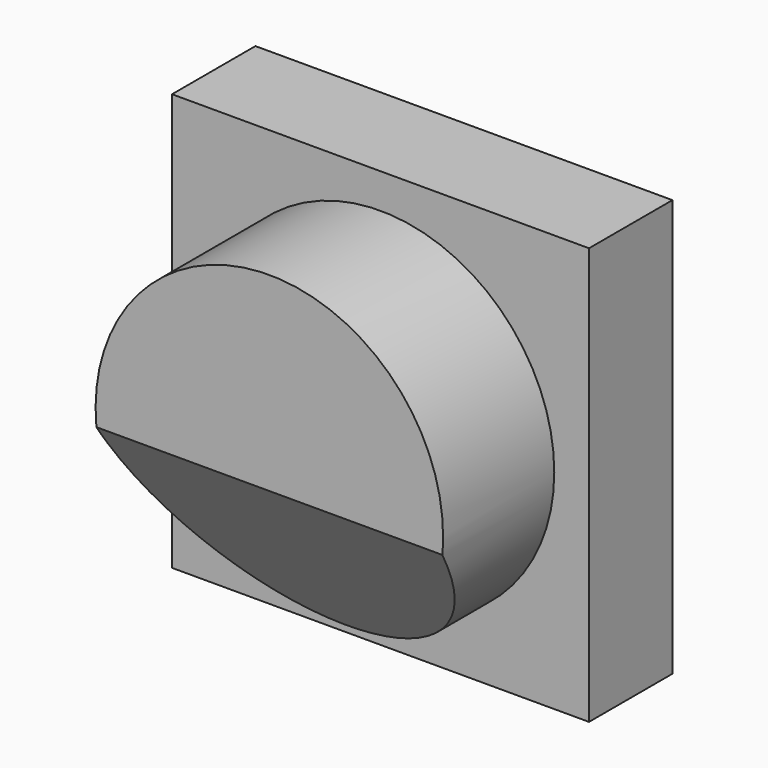
from build123d import *

# Parameters (mm, degrees)
F0_R     = 5
F1_DEPTH = 4
F3_DEPTH = 12.5
F4_W     = 12
F4_H     = 12
F5_DEPTH = 3
F6_R     = 4.5
F7_DEPTH = 0.5


with BuildPart() as f1:
    # F0 (on Front) → F1 (new body)
    with BuildSketch(Plane.XZ):
        Circle(F0_R)
    extrude(amount=F1_DEPTH)

    # F2 (on Right) → F3 (cut, symmetric)
    with BuildSketch(Plane.YZ):
        Polygon((-5.130814, -6.028544), (-0.71682, -5.832574), (-4.290942, 0), align=None)
    extrude(amount=F3_DEPTH, both=True, mode=Mode.SUBTRACT)

    # F4 (on face) → F5 (join)
    with BuildSketch(Plane(origin=(0, 0, 0), x_dir=(-1, 0, 0), z_dir=(0, 1, 0))):
        Rectangle(F4_W, F4_H)
    extrude(amount=F5_DEPTH)

    # F6 (on face) → F7 (cut)
    with BuildSketch(Plane(origin=(0, 3, 0), x_dir=(-1, 0, 0), z_dir=(0, 1, 0))):
        Circle(F6_R)
    extrude(amount=-F7_DEPTH, mode=Mode.SUBTRACT)


solid = f1.part
